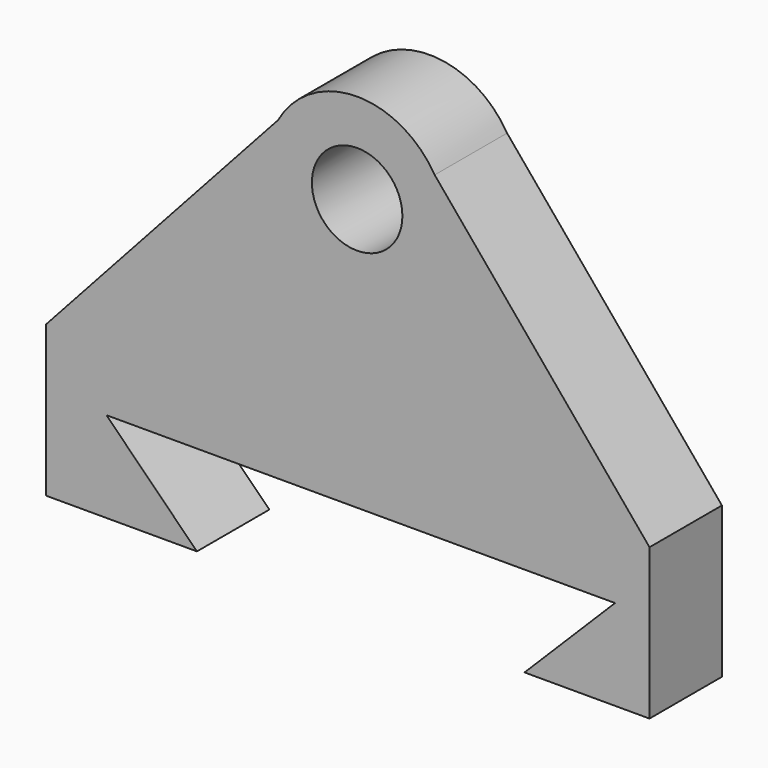
from build123d import *

# Parameters (mm, degrees)
F0_R     = 15
F1_DEPTH = 25
F2_DEPTH = 30


with BuildPart() as f1:
    # F0 (on Front) → F1 (new body)
    with BuildSketch(Plane.XZ):
        Polygon((-103.097814, 0), (-103.097814, -50), (-53.097814, -50), (-83.097814, -20), (85.478306, -20), (55.478306, -50), (96.902186, -50), (96.902186, 0), align=None)
        with BuildLine():
            ThreePointArc((25.70005, 85.476027), (-0.514468, 99.995588), (-26.215651, 84.585598))
            ThreePointArc((-26.215651, 84.585598), (-7.534271, 40.961495), (30, 70))
            ThreePointArc((30, 70), (28.90503, 78.031142), (25.70005, 85.476027))
        make_face()
        with Locations((0, 70)):
            Circle(F0_R, mode=Mode.SUBTRACT)
    extrude(amount=F1_DEPTH)


with BuildPart() as f2:
    # F0 (on Front) → F2 (new body)
    with BuildSketch(Plane.XZ):
        Polygon((-103.097814, 0), (-103.097814, -50), (-53.097814, -50), (-83.097814, -20), (85.478306, -20), (55.478306, -50), (96.902186, -50), (96.902186, 0), align=None)
        with BuildLine():
            Line((-26.215651, 84.585598), (-103.097814, 0))
            Line((-103.097814, 0), (96.902186, 0))
            Line((96.902186, 0), (25.70005, 85.476027))
            ThreePointArc((25.70005, 85.476027), (28.90503, 78.031142), (30, 70))
            ThreePointArc((30, 70), (-7.534271, 40.961495), (-26.215651, 84.585598))
        make_face()
        with BuildLine():
            ThreePointArc((25.70005, 85.476027), (-0.514468, 99.995588), (-26.215651, 84.585598))
            ThreePointArc((-26.215651, 84.585598), (-7.534271, 40.961495), (30, 70))
            ThreePointArc((30, 70), (28.90503, 78.031142), (25.70005, 85.476027))
        make_face()
        with Locations((0, 70)):
            Circle(F0_R, mode=Mode.SUBTRACT)
    extrude(amount=F2_DEPTH)


solid = Compound([f1.part, f2.part])
